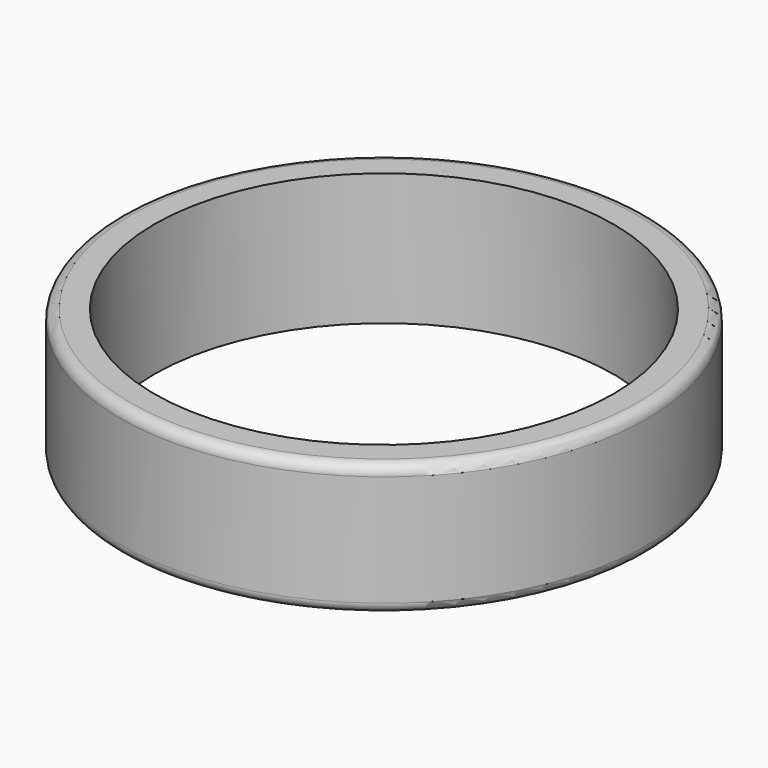
from build123d import *

# Parameters (mm, degrees)
F0_W = 1.65022
F0_H = 6.35
F2_R = 0.5


with BuildPart() as f1:
    # F0 (on Front) → F1 (revolve)
    with BuildSketch(Plane.XZ):
        with Locations((-11.87489, 3.175)):
            Rectangle(F0_W, F0_H)
    revolve(axis=Axis((0, 0, 3.175), (0, 0, 1)))

    # F2
    f2_edges = [f1.edges().sort_by_distance(p)[0] for p in [
        (12.7, 0, 6.35),
        (12.7, 0, 0),
    ]]
    fillet(f2_edges, radius=F2_R)


solid = f1.part
